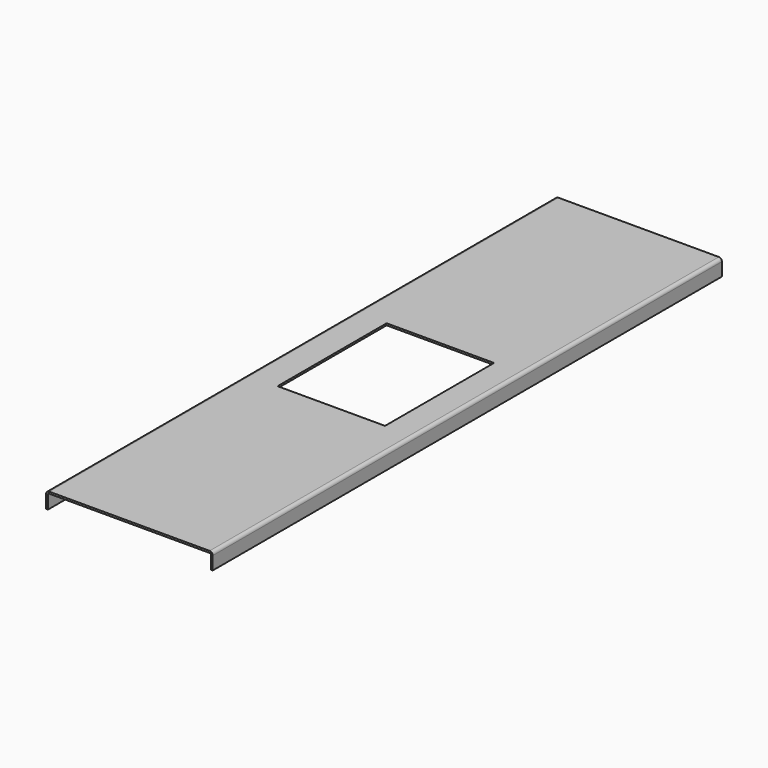
from build123d import *

# Parameters (mm, degrees)
F1_DEPTH = 508
F2_W     = 85.75
F2_H     = 108.75
F3_DEPTH = 25


with BuildPart() as f1:
    # F0 (on Front) → F1 (new body)
    with BuildSketch(Plane.XZ):
        with BuildLine():
            Line((0, 10.5), (0, 0))
            Line((0, 0), (1.5, 0))
            Line((1.5, 0), (1.5, 11.5))
            Line((1.5, 11.5), (131.5, 11.5))
            Line((131.5, 11.5), (131.5, 0))
            Line((131.5, 0), (133, 0))
            Line((133, 0), (133, 10.5))
            ThreePointArc((133, 10.5), (132.267767, 12.267767), (130.5, 13))
            Line((130.5, 13), (2.5, 13))
            ThreePointArc((2.5, 13), (0.732233, 12.267767), (0, 10.5))
        make_face()
    extrude(amount=F1_DEPTH)

    # F2 (on face) → F3 (cut)
    with BuildSketch(Plane.XY.offset(13)):
        with Locations((67.625, -253.6)):
            Rectangle(F2_W, F2_H)
    extrude(amount=-F3_DEPTH, mode=Mode.SUBTRACT)


solid = f1.part
